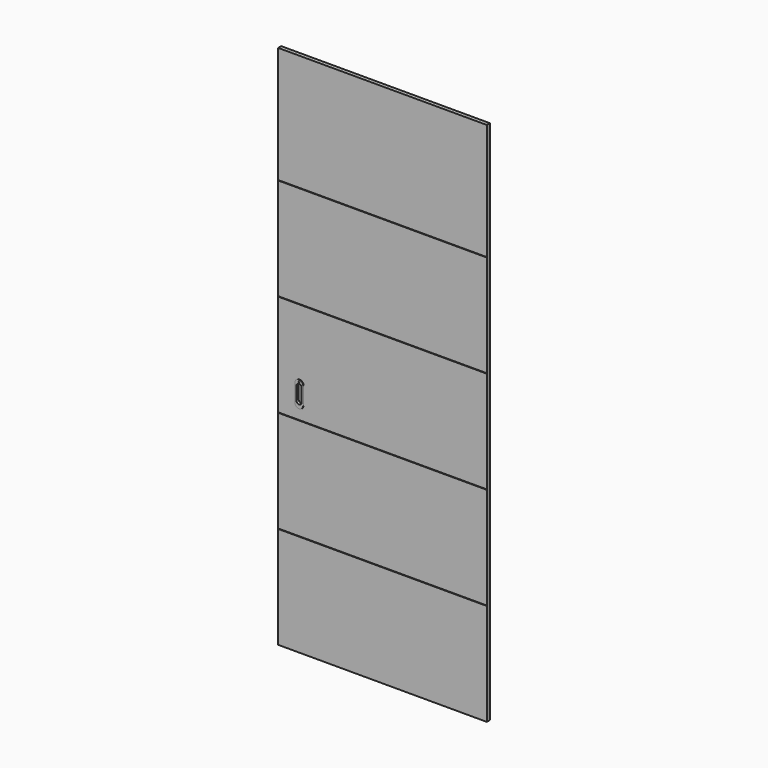
from build123d import *

# Parameters (mm, degrees)
F0_W     = 980
F0_H     = 2467
F1_DEPTH = 18
F3_DEPTH = 980.001
F5_DEPTH = 13
F6_DEPTH = 13
F7_START = -11
F7_DEPTH = 2
F4_R     = 1.75
F8_DEPTH = 2


with BuildPart() as f1:
    # F0 (on Front) → F1 (new body)
    with BuildSketch(Plane.XZ):
        with Locations((-171.7555719672, -4.3911735862)):
            Rectangle(F0_W, F0_H)
    extrude(amount=F1_DEPTH)

    # F2 (on face) → F3 (cut, through all)
    with BuildSketch(Plane(origin=(-661.7555719672, 0, 0), x_dir=(0, -1, 0), z_dir=(-1, 0, 0))):
        Polygon((18, -757.8911735862), (18, -756.8911735862), (17, -757.8911735862), (18, -758.8911735862), align=None)
        Polygon((18, 682.1088264138), (18, 683.1088264138), (17, 682.1088264138), (18, 681.1088264138), align=None)
        Polygon((17, 202.1088264138), (18, 201.1088264138), (18, 202.1088264138), (18, 203.1088264138), align=None)
        Polygon((17, -277.8911735862), (18, -278.8911735862), (18, -277.8911735862), (18, -276.8911735862), align=None)
    extrude(amount=-F3_DEPTH, mode=Mode.SUBTRACT)

    # F4 (on face) → F5 (cut)
    with BuildSketch(Plane.XZ.offset(18)):
        with BuildLine():
            Line((-547.7555719672, -199.8911735862), (-547.7555719672, -137.8911735862))
            ThreePointArc((-547.7555719672, -137.8911735862), (-561.7555719672, -123.8911735862), (-575.7555719672, -137.8911735862))
            Line((-575.7555719672, -137.8911735862), (-575.7555719672, -199.8911735862))
            ThreePointArc((-575.7555719672, -199.8911735862), (-561.7555719672, -213.8911735862), (-547.7555719672, -199.8911735862))
        make_face()
        with BuildLine():
            ThreePointArc((-573.7555719672, -137.8911735862), (-561.7555719672, -125.8911735862), (-549.7555719672, -137.8911735862))
            Line((-549.7555719672, -137.8911735862), (-549.7555719672, -199.8911735862))
            ThreePointArc((-549.7555719672, -199.8911735862), (-561.7555719672, -211.8911735862), (-573.7555719672, -199.8911735862))
            Line((-573.7555719672, -199.8911735862), (-573.7555719672, -137.8911735862))
        make_face(mode=Mode.SUBTRACT)
        with BuildLine():
            Line((-549.7555719672, -199.8911735862), (-549.7555719672, -137.8911735862))
            ThreePointArc((-549.7555719672, -137.8911735862), (-561.7555719672, -125.8911735862), (-573.7555719672, -137.8911735862))
            Line((-573.7555719672, -137.8911735862), (-573.7555719672, -199.8911735862))
            ThreePointArc((-573.7555719672, -199.8911735862), (-561.7555719672, -211.8911735862), (-549.7555719672, -199.8911735862))
        make_face()
    extrude(amount=-F5_DEPTH, mode=Mode.SUBTRACT)


with BuildPart() as f6:
    # F4 (on face) → F6 (new body)
    with BuildSketch(Plane.XZ.offset(18)):
        with BuildLine():
            Line((-547.7555719672, -199.8911735862), (-547.7555719672, -137.8911735862))
            ThreePointArc((-547.7555719672, -137.8911735862), (-561.7555719672, -123.8911735862), (-575.7555719672, -137.8911735862))
            Line((-575.7555719672, -137.8911735862), (-575.7555719672, -199.8911735862))
            ThreePointArc((-575.7555719672, -199.8911735862), (-561.7555719672, -213.8911735862), (-547.7555719672, -199.8911735862))
        make_face()
        with BuildLine():
            ThreePointArc((-573.7555719672, -137.8911735862), (-561.7555719672, -125.8911735862), (-549.7555719672, -137.8911735862))
            Line((-549.7555719672, -137.8911735862), (-549.7555719672, -199.8911735862))
            ThreePointArc((-549.7555719672, -199.8911735862), (-561.7555719672, -211.8911735862), (-573.7555719672, -199.8911735862))
            Line((-573.7555719672, -199.8911735862), (-573.7555719672, -137.8911735862))
        make_face(mode=Mode.SUBTRACT)
    extrude(amount=-F6_DEPTH)

    # F4 (on face) → F7 (join)
    with BuildSketch(Plane.XZ.offset(18).offset(F7_START)):
        with BuildLine():
            Line((-547.7555719672, -199.8911735862), (-547.7555719672, -137.8911735862))
            ThreePointArc((-547.7555719672, -137.8911735862), (-561.7555719672, -123.8911735862), (-575.7555719672, -137.8911735862))
            Line((-575.7555719672, -137.8911735862), (-575.7555719672, -199.8911735862))
            ThreePointArc((-575.7555719672, -199.8911735862), (-561.7555719672, -213.8911735862), (-547.7555719672, -199.8911735862))
        make_face()
        with BuildLine():
            ThreePointArc((-573.7555719672, -137.8911735862), (-561.7555719672, -125.8911735862), (-549.7555719672, -137.8911735862))
            Line((-549.7555719672, -137.8911735862), (-549.7555719672, -199.8911735862))
            ThreePointArc((-549.7555719672, -199.8911735862), (-561.7555719672, -211.8911735862), (-573.7555719672, -199.8911735862))
            Line((-573.7555719672, -199.8911735862), (-573.7555719672, -137.8911735862))
        make_face(mode=Mode.SUBTRACT)
        with BuildLine():
            Line((-549.7555719672, -199.8911735862), (-549.7555719672, -137.8911735862))
            ThreePointArc((-549.7555719672, -137.8911735862), (-561.7555719672, -125.8911735862), (-573.7555719672, -137.8911735862))
            Line((-573.7555719672, -137.8911735862), (-573.7555719672, -199.8911735862))
            ThreePointArc((-573.7555719672, -199.8911735862), (-561.7555719672, -211.8911735862), (-549.7555719672, -199.8911735862))
        make_face()
    extrude(amount=-F7_DEPTH)

    # F4 (on face) → F8 (join)
    with BuildSketch(Plane.XZ.offset(18)):
        with BuildLine():
            Line((-581.7555719672, -128.8911735862), (-581.7555719672, -168.8911735862))
            Line((-581.7555719672, -168.8911735862), (-581.7555719672, -208.8911735862))
            ThreePointArc((-581.7555719672, -208.8911735862), (-575.8977075909, -223.03330921), (-561.7555719672, -228.8911735862))
            ThreePointArc((-561.7555719672, -228.8911735862), (-547.6134363435, -223.03330921), (-541.7555719672, -208.8911735862))
            Line((-541.7555719672, -208.8911735862), (-541.7555719672, -168.8911735862))
            Line((-541.7555719672, -168.8911735862), (-541.7555719672, -128.8911735862))
            ThreePointArc((-541.7555719672, -128.8911735862), (-547.6134363435, -114.7490379625), (-561.7555719672, -108.8911735862))
            ThreePointArc((-561.7555719672, -108.8911735862), (-575.8977075909, -114.7490379625), (-581.7555719672, -128.8911735862))
        make_face()
        with BuildLine():
            ThreePointArc((-575.7555719672, -137.8911735862), (-561.7555719672, -123.8911735862), (-547.7555719672, -137.8911735862))
            Line((-547.7555719672, -137.8911735862), (-547.7555719672, -199.8911735862))
            ThreePointArc((-547.7555719672, -199.8911735862), (-561.7555719672, -213.8911735862), (-575.7555719672, -199.8911735862))
            Line((-575.7555719672, -199.8911735862), (-575.7555719672, -137.8911735862))
        make_face(mode=Mode.SUBTRACT)
        with Locations((-561.7555719672, -118.6317622662)):
            Circle(F4_R, mode=Mode.SUBTRACT)
        with BuildLine():
            Line((-547.7555719672, -199.8911735862), (-547.7555719672, -137.8911735862))
            ThreePointArc((-547.7555719672, -137.8911735862), (-561.7555719672, -123.8911735862), (-575.7555719672, -137.8911735862))
            Line((-575.7555719672, -137.8911735862), (-575.7555719672, -199.8911735862))
            ThreePointArc((-575.7555719672, -199.8911735862), (-561.7555719672, -213.8911735862), (-547.7555719672, -199.8911735862))
        make_face()
        with BuildLine():
            ThreePointArc((-573.7555719672, -137.8911735862), (-561.7555719672, -125.8911735862), (-549.7555719672, -137.8911735862))
            Line((-549.7555719672, -137.8911735862), (-549.7555719672, -199.8911735862))
            ThreePointArc((-549.7555719672, -199.8911735862), (-561.7555719672, -211.8911735862), (-573.7555719672, -199.8911735862))
            Line((-573.7555719672, -199.8911735862), (-573.7555719672, -137.8911735862))
        make_face(mode=Mode.SUBTRACT)
    extrude(amount=F8_DEPTH)


solid = Compound([f1.part, f6.part])
